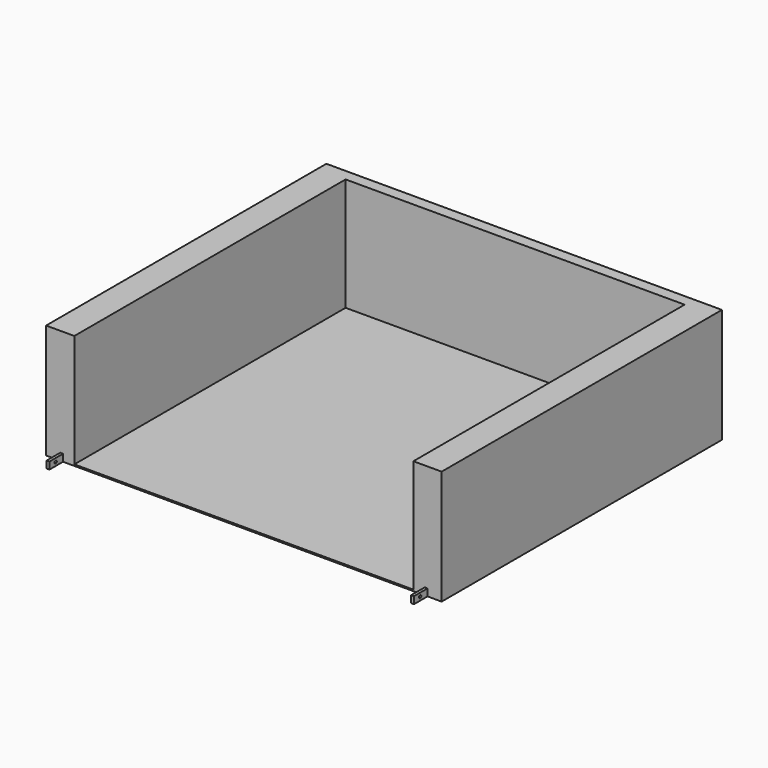
from build123d import *

# Parameters (mm, degrees)
F0_W     = 1778
F0_H     = 1574.8
F1_DEPTH = 6.35
F3_DEPTH = 508
F4_W     = 12.7
F4_H     = 31.75
F5_DEPTH = 76.2
F6_R     = 6.35
F7_DEPTH = 1714.501


with BuildPart() as f1:
    # F0 (on Top) → F1 (new body)
    with BuildSketch(Plane.XY):
        Rectangle(F0_W, F0_H)
    extrude(amount=F1_DEPTH)

    # F2 (on face) → F3 (join)
    with BuildSketch(Plane.XY.offset(6.35)):
        Polygon((-889, 736.6), (-889, -787.4), (-762, -787.4), (-762, 736.6), (762, 736.6), (762, -787.4), (889, -787.4), (889, 736.6), (889, 787.4), (762, 787.4), (-762, 787.4), (-889, 787.4), align=None)
    extrude(amount=F3_DEPTH)

    # F4 (on face) → F5 (join)
    with BuildSketch(Plane.XZ.offset(787.4)):
        with Locations((-819.15, 15.875)):
            Rectangle(F4_W, F4_H)
        with Locations((819.15, 15.875)):
            Rectangle(F4_W, F4_H)
    extrude(amount=F5_DEPTH)

    # F6 (on face) → F7 (cut, through all)
    with BuildSketch(Plane(origin=(-825.5, 0, 0), x_dir=(0, -1, 0), z_dir=(-1, 0, 0))):
        with Locations((828.675, 15.875)):
            Circle(F6_R)
    extrude(amount=-F7_DEPTH, mode=Mode.SUBTRACT)


solid = f1.part
